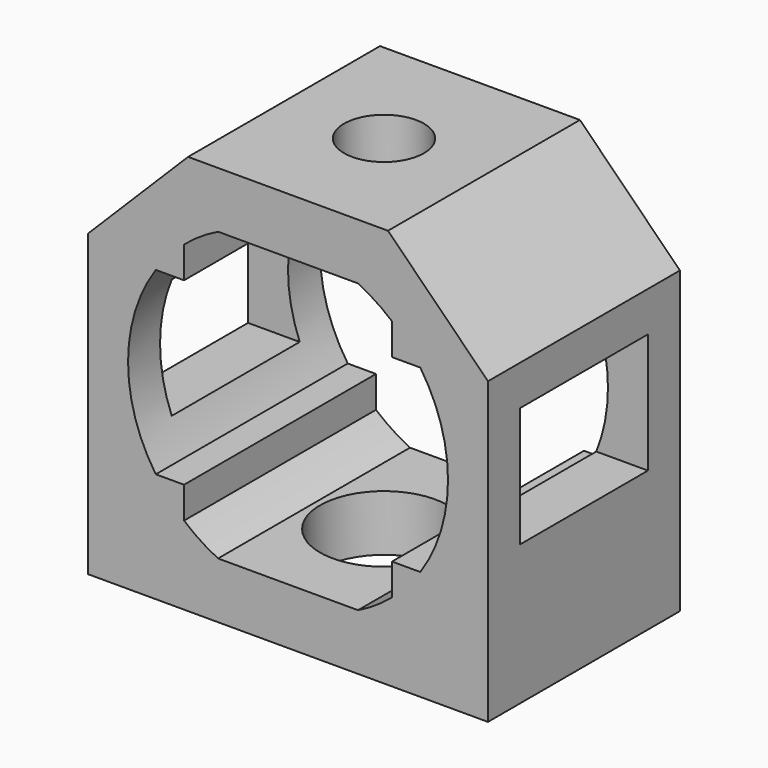
from build123d import *

# Parameters (mm, degrees)
F1_DEPTH = 300
F2_R     = 50
F3_DEPTH = 70.156318
F4_R     = 80
F5_DEPTH = 70.156318
F6_W     = 200
F6_H     = 150
F7_DEPTH = 500.001


with BuildPart() as f1:
    # F0 (on Front) → F1 (new body)
    with BuildSketch(Plane.XZ):
        Polygon((-250, -250), (250, -250), (250, 125), (125, 250), (-125, 250), (-250, 125), align=None)
        with BuildLine():
            ThreePointArc((165.359457, 112.5), (191.143783, 58.856217), (200, 0))
            ThreePointArc((200, 0), (191.143783, -58.856217), (165.359457, -112.5))
            ThreePointArc((165.359457, -112.5), (148.99364, -133.419995), (130, -151.986842))
            ThreePointArc((130, -151.986842), (109.63833, -167.270549), (87.5, -179.843682))
            ThreePointArc((87.5, -179.843682), (0, -200), (-87.5, -179.843682))
            ThreePointArc((-87.5, -179.843682), (-109.63833, -167.270549), (-130, -151.986842))
            ThreePointArc((-130, -151.986842), (-148.99364, -133.419995), (-165.359457, -112.5))
            ThreePointArc((-165.359457, -112.5), (-200, 0), (-165.359457, 112.5))
            ThreePointArc((-165.359457, 112.5), (-148.99364, 133.419995), (-130, 151.986842))
            ThreePointArc((-130, 151.986842), (-109.63833, 167.270549), (-87.5, 179.843682))
            ThreePointArc((-87.5, 179.843682), (0, 200), (87.5, 179.843682))
            ThreePointArc((87.5, 179.843682), (109.63833, 167.270549), (130, 151.986842))
            ThreePointArc((130, 151.986842), (148.99364, 133.419995), (165.359457, 112.5))
        make_face(mode=Mode.SUBTRACT)
        with BuildLine():
            Line((-130, 112.5), (-130, 151.986842))
            ThreePointArc((-130, 151.986842), (-148.99364, 133.419995), (-165.359457, 112.5))
            Line((-165.359457, 112.5), (-130, 112.5))
        make_face()
        with BuildLine():
            Line((-87.5, 179.843682), (87.5, 179.843682))
            ThreePointArc((87.5, 179.843682), (0, 200), (-87.5, 179.843682))
        make_face()
        with BuildLine():
            Line((130, 112.5), (165.359457, 112.5))
            ThreePointArc((165.359457, 112.5), (148.99364, 133.419995), (130, 151.986842))
            Line((130, 151.986842), (130, 112.5))
        make_face()
        with BuildLine():
            ThreePointArc((130, -151.986842), (148.99364, -133.419995), (165.359457, -112.5))
            Line((165.359457, -112.5), (130, -112.5))
            Line((130, -112.5), (130, -151.986842))
        make_face()
        with BuildLine():
            ThreePointArc((-87.5, -179.843682), (0, -200), (87.5, -179.843682))
            Line((87.5, -179.843682), (-87.5, -179.843682))
        make_face()
        with BuildLine():
            ThreePointArc((-165.359457, -112.5), (-148.99364, -133.419995), (-130, -151.986842))
            Line((-130, -151.986842), (-130, -112.5))
            Line((-130, -112.5), (-165.359457, -112.5))
        make_face()
    extrude(amount=F1_DEPTH)

    # F2 (on face) → F3 (cut, through all)
    with BuildSketch(Plane.XY.offset(250)):
        with Locations((0, -150)):
            Circle(F2_R)
    extrude(amount=-F3_DEPTH, mode=Mode.SUBTRACT)

    # F4 (on face) → F5 (cut, through all)
    with BuildSketch(Plane(origin=(0, 0, -250), x_dir=(1, 0, 0), z_dir=(0, 0, -1))):
        with Locations((0, 150)):
            Circle(F4_R)
    extrude(amount=-F5_DEPTH, mode=Mode.SUBTRACT)

    # F6 (on face) → F7 (cut, through all)
    with BuildSketch(Plane.YZ.offset(250)):
        with Locations((-150, 0)):
            Rectangle(F6_W, F6_H)
    extrude(amount=-F7_DEPTH, mode=Mode.SUBTRACT)


solid = f1.part
